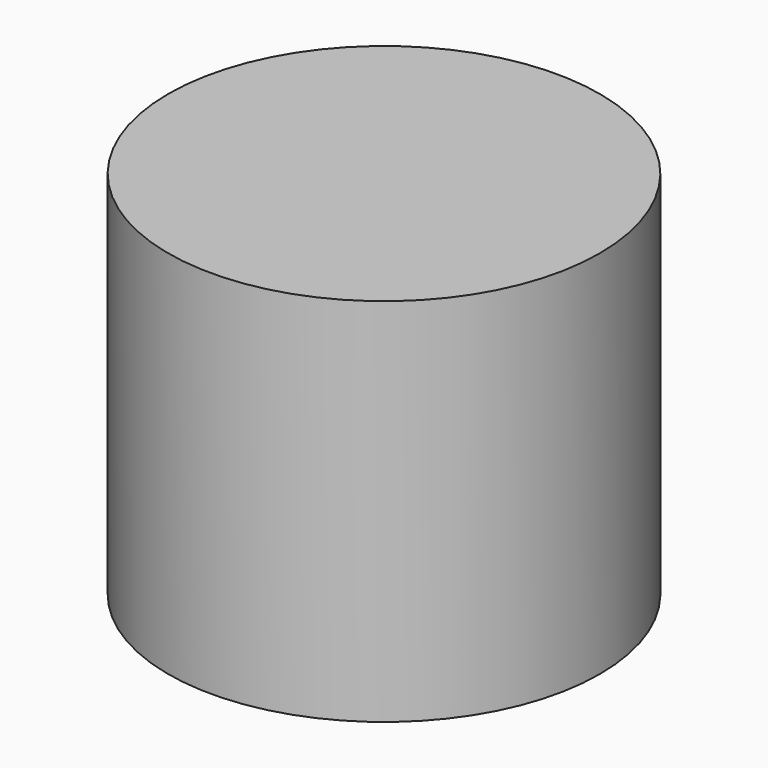
from build123d import *

# Parameters (mm, degrees)
CYLINDER_R     = 8.7376
CYLINDER_DEPTH = 15


with BuildPart() as part:
    # Cylinder → Cylinder (new body)
    with BuildSketch(Plane.XY.offset(-2.5)):
        Circle(CYLINDER_R)
    extrude(amount=CYLINDER_DEPTH)


solid = part.part
